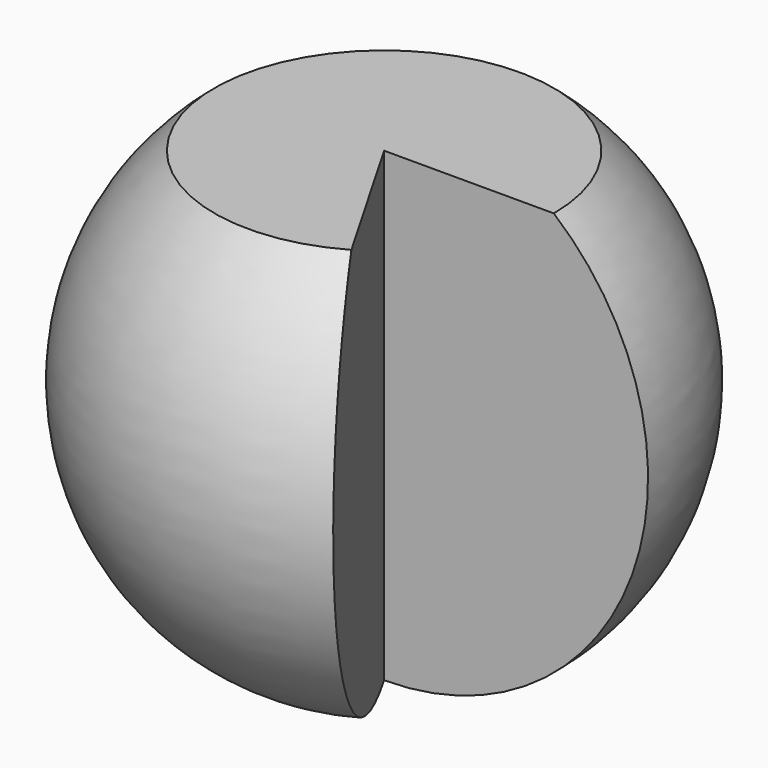
from build123d import *

# Parameters (mm, degrees)
SPHERE_ANGLE = 300


with BuildPart() as part:
    # Sphere → Sphere (revolve)
    with BuildSketch(Plane.XZ):
        with BuildLine():
            ThreePointArc((0, -10), (9.396926, -3.420201), (6.427876, 7.660444))
            Line((6.427876, 7.660444), (0, 7.660444))
            Line((0, 7.660444), (0, -10))
        make_face()
    revolve(axis=Axis((0, 0, 0), (0, 0, 1)), revolution_arc=SPHERE_ANGLE)


solid = part.part
